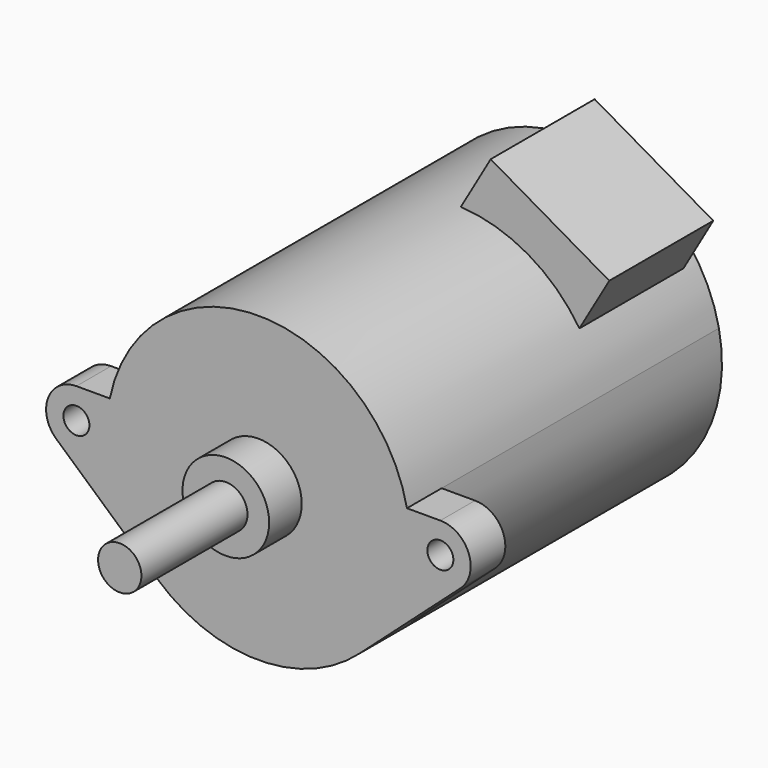
from build123d import *

# Parameters (mm, degrees)
F0_R     = 5
F0_R_2   = 1.5
F0_R_3   = 2.5
F1_DEPTH = 5
F2_DEPTH = 45
F3_DEPTH = 4.7
F4_DEPTH = 20
F7_DEPTH = 15


with BuildPart() as f1:
    # F0 (on Front) → F1 (new body)
    with BuildSketch(Plane.XZ):
        with BuildLine():
            ThreePointArc((-17.146428, 3.5), (-16.612416, -5.502512), (-11.666667, -13.04373))
            ThreePointArc((-11.666667, -13.04373), (0, -17.5), (11.666667, -13.04373))
            ThreePointArc((11.666667, -13.04373), (16.612416, -5.502512), (17.146428, 3.5))
            ThreePointArc((17.146428, 3.5), (0, 17.5), (-17.146428, 3.5))
        make_face()
        Circle(F0_R, mode=Mode.SUBTRACT)
        with BuildLine():
            Line((-23.333333, -2.608746), (-11.666667, -13.04373))
            ThreePointArc((-11.666667, -13.04373), (-16.612416, -5.502512), (-17.146428, 3.5))
            Line((-17.146428, 3.5), (-21, 3.5))
            ThreePointArc((-21, 3.5), (-24.269603, 1.248877), (-23.333333, -2.608746))
        make_face()
        with Locations((-21, 0)):
            Circle(F0_R_2, mode=Mode.SUBTRACT)
        Circle(F0_R_3)
        with BuildLine():
            ThreePointArc((17.146428, 3.5), (16.612416, -5.502512), (11.666667, -13.04373))
            Line((11.666667, -13.04373), (23.333333, -2.608746))
            ThreePointArc((23.333333, -2.608746), (24.269603, 1.248877), (21, 3.5))
            Line((21, 3.5), (17.146428, 3.5))
        make_face()
        with Locations((21, 0)):
            Circle(F0_R_2, mode=Mode.SUBTRACT)
        Circle(F0_R)
        Circle(F0_R_3, mode=Mode.SUBTRACT)
    extrude(amount=-F1_DEPTH)

    # F0 (on Front) → F2 (join)
    with BuildSketch(Plane.XZ):
        with BuildLine():
            ThreePointArc((-17.146428, 3.5), (-16.612416, -5.502512), (-11.666667, -13.04373))
            ThreePointArc((-11.666667, -13.04373), (0, -17.5), (11.666667, -13.04373))
            ThreePointArc((11.666667, -13.04373), (16.612416, -5.502512), (17.146428, 3.5))
            ThreePointArc((17.146428, 3.5), (0, 17.5), (-17.146428, 3.5))
        make_face()
        Circle(F0_R, mode=Mode.SUBTRACT)
        Circle(F0_R)
        Circle(F0_R_3, mode=Mode.SUBTRACT)
        Circle(F0_R_3)
    extrude(amount=-F2_DEPTH)

    # F0 (on Front) → F3 (join)
    with BuildSketch(Plane.XZ):
        Circle(F0_R)
        Circle(F0_R_3, mode=Mode.SUBTRACT)
        Circle(F0_R_3)
    extrude(amount=F3_DEPTH)

    # F0 (on Front) → F4 (join)
    with BuildSketch(Plane.XZ):
        Circle(F0_R_3)
    extrude(amount=F4_DEPTH)


with BuildPart() as f1_1:
    # F5: moved
    add(f1.part.moved(Location((0, -43, 0))))

    # F6 (on Front) → F7 (join)
    with BuildSketch(Plane.XZ):
        Polygon((18.091601, 15.535572), (4.408399, 23.435572), (0.966088, 17.473313), (14.649289, 9.573313), align=None)
    extrude(amount=F7_DEPTH)


solid = f1_1.part
